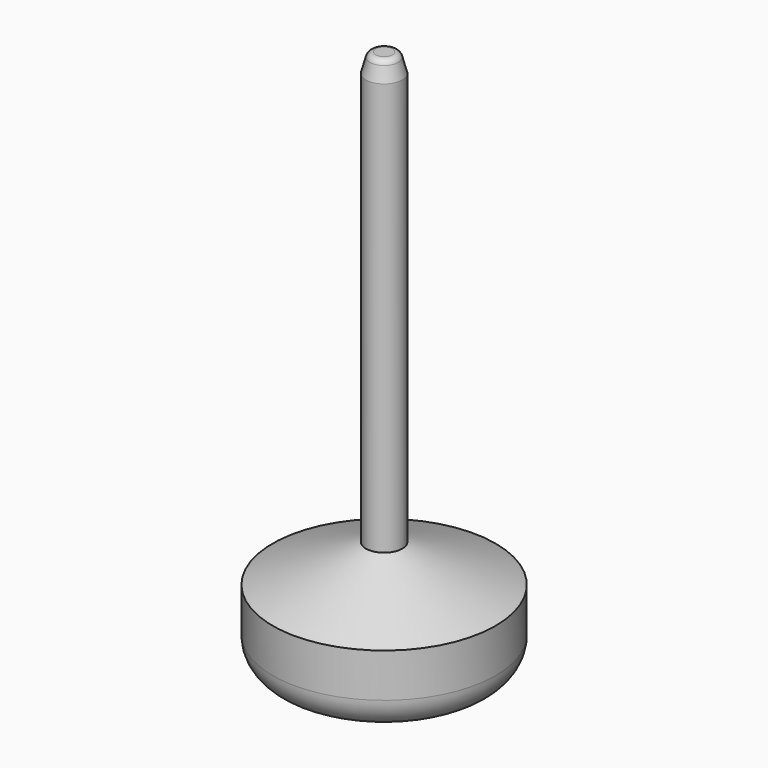
from build123d import *

# Parameters (mm, degrees)
F0_R       = 17.8
F3_DEPTH   = 12
F2_R       = 2.9
F4_DEPTH   = 65.9
F4_FACE_R  = 2.9
F3_FACE_R  = 17.8
F4_FACE1_R = 2.9
F7_R       = 2.0821822951
F9_R       = 1
F10_R      = 5


with BuildPart() as f3:
    # F0 (on Top) → F3 (new body)
    with BuildSketch(Plane.XY):
        Circle(F0_R)
    extrude(amount=F3_DEPTH)

    # F10
    f10_edges = [f3.edges().sort_by_distance(p)[0] for p in [
        (-17.8, 0, 0),
    ]]
    fillet(f10_edges, radius=F10_R)


with BuildPart() as f4:
    # F2 (on offset) → F4 (new body)
    with BuildSketch(Plane.XY.offset(18)):
        Circle(F2_R)
    extrude(amount=F4_DEPTH)

    # F4_face1 (on face) → F8 section 0
    with BuildSketch(Plane.XY.offset(83.9)):
        Circle(F4_FACE1_R)
    # F7 (on offset) → F8 section 1
    with BuildSketch(Plane.XY.offset(86.9)):
        Circle(F7_R)
    loft()

    # F9
    f9_edges = [f4.edges().sort_by_distance(p)[0] for p in [
        (-2.082182, 0, 86.9),
    ]]
    fillet(f9_edges, radius=F9_R)


with BuildPart() as f5:
    # F4_face (on face) → F5 section 0
    with BuildSketch(Plane(origin=(0, 0, 18), x_dir=(1, 0, 0), z_dir=(0, 0, -1))):
        Circle(F4_FACE_R)
    # F3_face (on face) → F5 section 1
    with BuildSketch(Plane.XY.offset(12)):
        Circle(F3_FACE_R)
    loft()


solid = Compound([f3.part, f4.part, f5.part])
